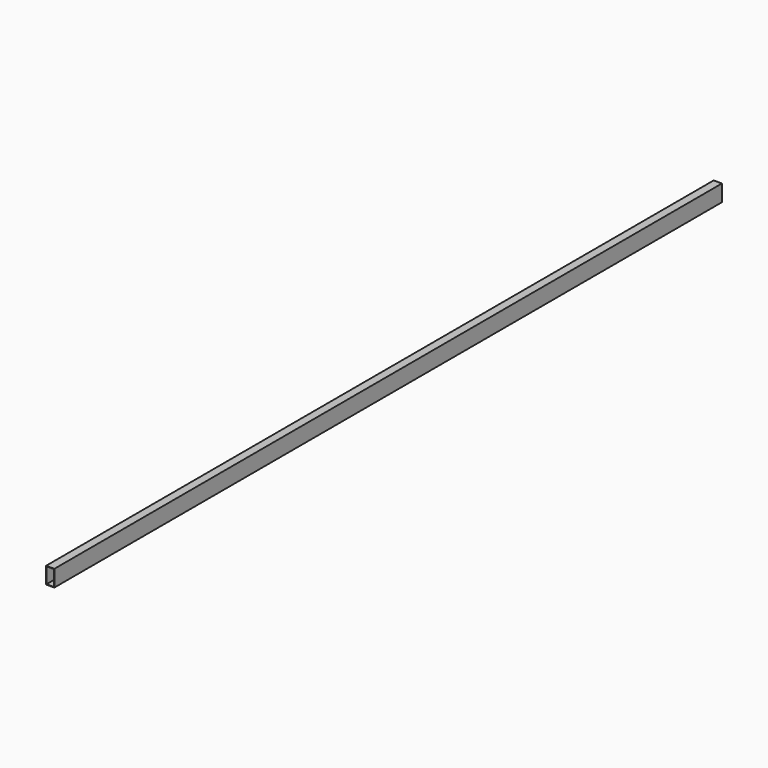
from build123d import *

# Parameters (mm, degrees)
F0_W   = 60
F0_H   = 120
F0_W_2 = 54
F0_H_2 = 114


with BuildPart() as f2:
    # F2: sweep along a path in F1
    with BuildLine(Plane.YZ) as f2_path:
        Line((0, 0), (-6055, 0))
    # F0 (on Front) → F2 (sweep)
    with BuildSketch(Plane.XZ):
        Rectangle(F0_W, F0_H)
        Rectangle(F0_W_2, F0_H_2, mode=Mode.SUBTRACT)
    sweep(path=f2_path.line)


solid = f2.part
